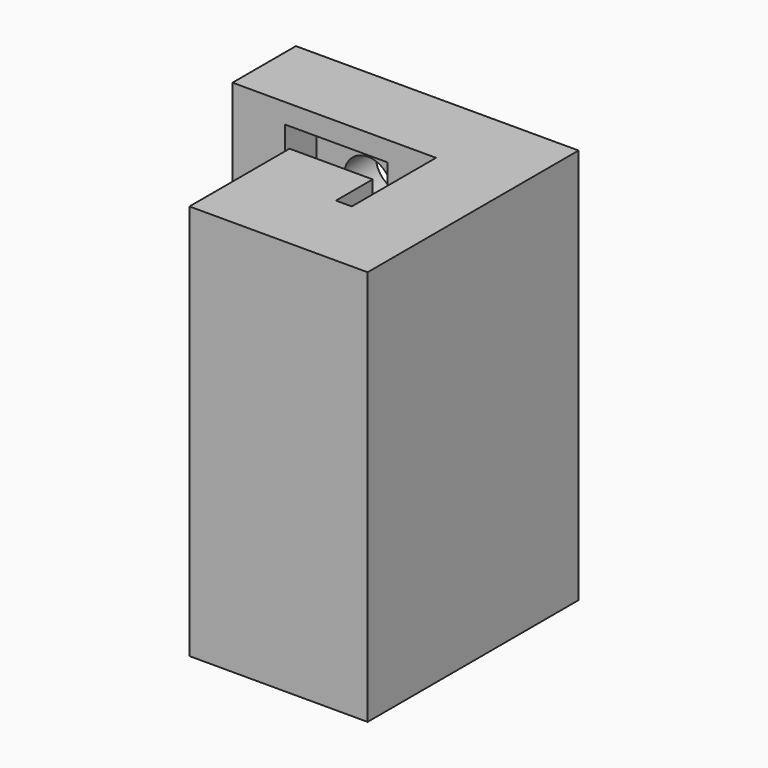
from build123d import *

# Parameters (mm, degrees)
F1_DEPTH = 25
F2_R     = 3
F3_DEPTH = 10
F4_W     = 13
F4_H     = 13
F5_DEPTH = 5


with BuildPart() as f1:
    # F0 (on Top) → F1 (new body, symmetric)
    with BuildSketch(Plane.XY):
        Polygon((22.5, 0), (22.5, 33.3), (-13.2, 33.3), (-13.2, 23.3), (12.5, 23.3), (12.5, 10), (10.5, 10), (10.5, 15.8), (0, 15.8), (0, 0), align=None)
    extrude(amount=F1_DEPTH, both=True)

    # F2 (on face) → F3 (cut, through all)
    with BuildSketch(Plane(origin=(0, 33.3, 0), x_dir=(-1, 0, 0), z_dir=(0, 1, 0))):
        with Locations((0.1, -16)):
            Circle(F2_R)
        with Locations((0.1, 16)):
            Circle(F2_R)
    extrude(amount=-F3_DEPTH, mode=Mode.SUBTRACT)

    # F4 (on face) → F5 (cut)
    with BuildSketch(Plane.XZ.offset(-23.3)):
        with Locations((-0.1, 16)):
            Rectangle(F4_W, F4_H)
        with Locations((-0.1, -16)):
            Rectangle(F4_W, F4_H)
    extrude(amount=-F5_DEPTH, mode=Mode.SUBTRACT)


solid = f1.part
